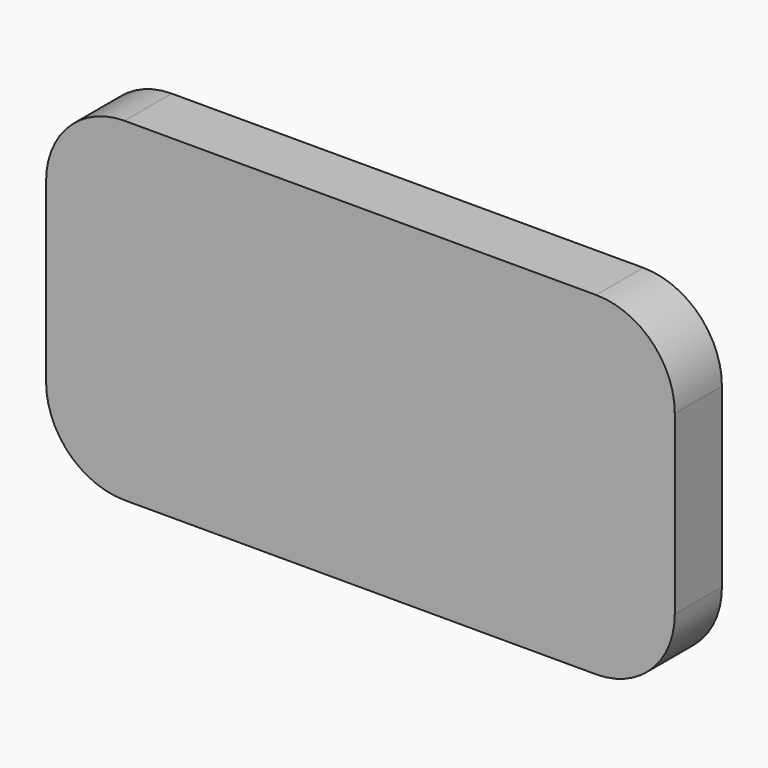
from build123d import *

# Parameters (mm, degrees)
F0_W     = 40.64
F0_H     = 21.59
F1_DEPTH = 1.905
F2_R     = 5.08


with BuildPart() as f1:
    # F0 (on Front) → F1 (new body, symmetric)
    with BuildSketch(Plane.XZ):
        with Locations((-13.928885, -27.195361)):
            Rectangle(F0_W, F0_H)
    extrude(amount=F1_DEPTH, both=True)

    # F2
    f2_edges = [f1.edges().sort_by_distance(p)[0] for p in [
        (-34.248885, 0, -16.400361),
        (6.391115, 0, -16.400361),
        (-34.248885, 0, -37.990361),
        (6.391115, 0, -37.990361),
    ]]
    fillet(f2_edges, radius=F2_R)


solid = f1.part
